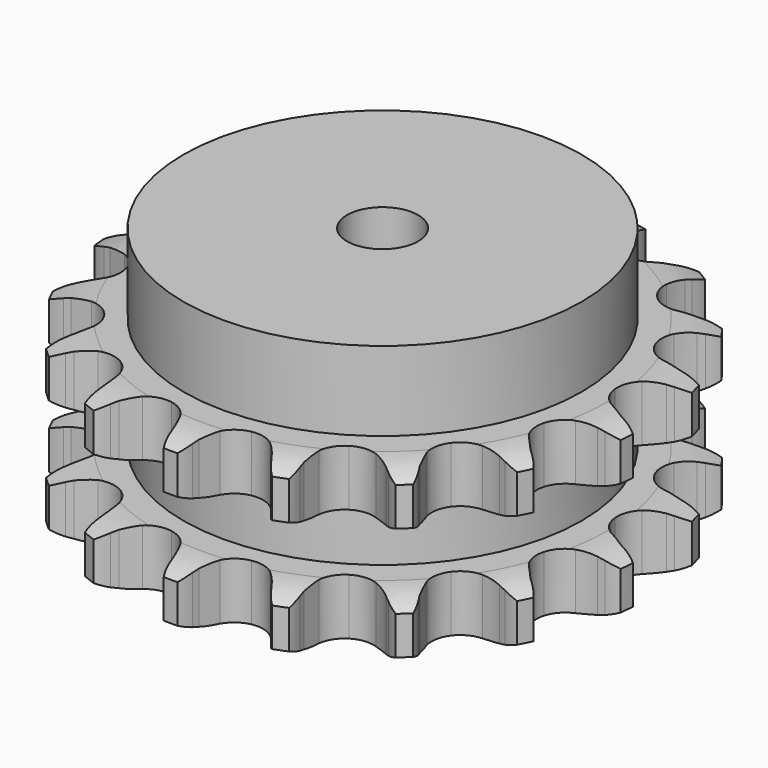
from build123d import *

# Parameters (mm, degrees)
PAD_DEPTH         = 47.7
SKETCH001_R       = 56
PAD001_DEPTH      = 70
SKETCH002_R       = 10
POCKET_DEPTH      = 0.0010001
POCKET_DEPTH_BACK = 70.001


with BuildPart() as part:
    # Sprocket → Pad (new body)
    with BuildSketch(Plane.XY):
        with BuildLine():
            ThreePointArc((-14.163628819, 75.7687219451), (-11.6049696603, 73.3617884607), (-9.7713057481, 70.3655003997))
            Line((-9.7713057481, 70.3655003997), (-9.0179825183, 68.6593859286))
            ThreePointArc((-9.0179825183, 68.6593859286), (-7.7909008371, 66.3021839506), (-6.2722327111, 64.1214093771))
            ThreePointArc((-6.2722327111, 64.1214093771), (-3.4814415257, 61.8933154782), (0, 61.0980276272))
            ThreePointArc((0, 61.0980276272), (3.4814415257, 61.8933154782), (6.2722327111, 64.1214093771))
            ThreePointArc((6.2722327111, 64.1214093771), (7.7909008371, 66.3021839506), (9.0179825183, 68.6593859286))
            Line((9.0179825183, 68.6593859286), (9.7713057481, 70.3655003997))
            ThreePointArc((9.7713057481, 70.3655003997), (11.6049696603, 73.3617884607), (14.163628819, 75.7687219451))
            ThreePointArc((14.163628819, 75.7687219451), (15.6800227667, 72.6000290152), (16.3074793514, 69.1436778001))
            Line((16.3074793514, 69.1436778001), (16.3936127087, 67.2806416969))
            ThreePointArc((16.3936127087, 67.2806416969), (16.6863127296, 64.6393432823), (17.3146419422, 62.0572253497))
            ThreePointArc((17.3146419422, 62.0572253497), (19.1120968682, 58.9714396067), (22.0711533008, 56.9722140338))
            ThreePointArc((22.0711533008, 56.9722140338), (25.6047919502, 56.4561561317), (29.0120075812, 57.5256417591))
            Line((29.0120075812, 57.5256417591), (33.2116492358, 60.7652996358))
            ThreePointArc((33.2116492358, 60.7652996358), (33.8561913272, 61.4395301701), (34.5304218616, 62.0840722616))
            ThreePointArc((34.5304218616, 62.0840722616), (37.3226466294, 64.2156318629), (40.5780099016, 65.5357361974))
            ThreePointArc((40.5780099016, 65.5357361974), (40.8473412331, 62.0332333606), (40.1838490016, 58.5836183753))
            Line((40.1838490016, 58.5836183753), (39.5911596992, 56.8152739892))
            ThreePointArc((39.5911596992, 56.8152739892), (38.9099473, 54.2466011248), (38.5630782574, 51.6118691679))
            ThreePointArc((38.5630782574, 51.6118691679), (39.1244406762, 48.0851440442), (41.1614750479, 45.1519872411))
            ThreePointArc((41.1614750479, 45.1519872411), (44.2700733408, 43.3942800653), (47.8335500663, 43.160717461))
            Line((47.8335500663, 43.160717461), (52.9198986919, 44.6645229151))
            ThreePointArc((52.9198986919, 44.6645229151), (53.7644764545, 45.0603887055), (54.626013163, 45.4178461448))
            ThreePointArc((54.626013163, 45.4178461448), (57.9996933592, 46.3967983509), (61.5121058965, 46.4517861302))
            ThreePointArc((61.5121058965, 46.4517861302), (60.497999923, 43.0885058026), (58.6331671777, 40.1115166658))
            Line((58.6331671777, 40.1115166658), (57.4417011901, 38.6766887049))
            ThreePointArc((57.4417011901, 38.6766887049), (55.8785778802, 36.5275548945), (54.6033571686, 34.1960440637))
            ThreePointArc((54.6033571686, 34.1960440637), (53.8528119749, 30.7046833296), (54.6927115061, 27.2337343758))
            ThreePointArc((54.6927115061, 27.2337343758), (56.9564360178, 24.47176602), (60.1949065601, 22.966699108))
            Line((60.1949065601, 22.966699108), (65.4810225904, 22.53155488))
            ThreePointArc((65.4810225904, 22.53155488), (66.4115711173, 22.595592058), (67.3440586935, 22.6176882373))
            ThreePointArc((67.3440586935, 22.6176882373), (70.8435601135, 22.3118201281), (74.1386511397, 21.0942649479))
            ThreePointArc((74.1386511397, 21.0942649479), (71.9780684923, 18.3244367742), (69.1637512289, 16.2221323651))
            Line((69.1637512289, 16.2221323651), (67.5344226399, 15.3146022961))
            ThreePointArc((67.5344226399, 15.3146022961), (65.3004968837, 13.8752599696), (63.2691501266, 12.1618537219))
            ThreePointArc((63.2691501266, 12.1618537219), (61.3080626077, 9.1773849909), (60.8373942127, 5.6374147756))
            ThreePointArc((60.8373942127, 5.6374147756), (61.950516404, 2.244204371), (64.4266073714, -0.3290992225))
            Line((64.4266073714, -0.3290992225), (69.1985715452, -2.6444244933))
            ThreePointArc((69.1985715452, -2.6444244933), (70.0894151015, -2.9208645035), (70.9669159312, -3.2371137957))
            ThreePointArc((70.9669159312, -3.2371137957), (74.1196115167, -4.7864930371), (76.7523607301, -7.1121536029))
            ThreePointArc((76.7523607301, -7.1121536029), (73.7371000675, -8.9144489796), (70.353387427, -9.8581408015))
            Line((70.353387427, -9.8581408015), (68.506246091, -10.1158060139))
            ThreePointArc((68.506246091, -10.1158060139), (65.9032219405, -10.6509656997), (63.3900937735, -11.5148623562))
            ThreePointArc((63.3900937735, -11.5148623562), (60.4833196656, -13.5893700446), (58.7656497192, -16.720268928))
            ThreePointArc((58.7656497192, -16.720268928), (58.5778362702, -20.2864495139), (59.9571378571, -23.5804508793))
            Line((59.9571378571, -23.5804508793), (63.5704699703, -27.4632596855))
            ThreePointArc((63.5704699703, -27.4632596855), (64.3012951974, -28.0428421287), (65.0052979312, -28.6547256731))
            ThreePointArc((65.0052979312, -28.6547256731), (67.3853986736, -31.2383637948), (69.0002387043, -34.3580363999))
            ThreePointArc((69.0002387043, -34.3580363999), (65.5375276872, -34.9493890021), (62.0414088116, -34.607017427))
            Line((62.0414088116, -34.607017427), (60.2259214013, -34.1800186682))
            ThreePointArc((60.2259214013, -34.1800186682), (57.6053516919, -33.7387194322), (54.9498539996, -33.6364324671))
            ThreePointArc((54.9498539996, -33.6364324671), (51.489969253, -34.5208053542), (48.7572785994, -36.8197876626))
            ThreePointArc((48.7572785994, -36.8197876626), (47.2938947572, -40.0773059808), (47.3901246413, -43.6471319811))
            Line((47.3901246413, -43.6471319811), (49.3568241697, -48.573029478))
            ThreePointArc((49.3568241697, -48.573029478), (49.8289290711, -49.3774785337), (50.2643542387, -50.202358067))
            ThreePointArc((50.2643542387, -50.202358067), (51.5504143443, -53.4713204242), (51.929252098, -56.9636759967))
            ThreePointArc((51.929252098, -56.9636759967), (48.4867490368, -56.2642203787), (45.3503941528, -54.6820245849))
            Line((45.3503941528, -54.6820245849), (43.811752303, -53.6280304033))
            ThreePointArc((43.811752303, -53.6280304033), (41.5275594951, -52.2698721527), (39.0883319554, -51.2152159874))
            ThreePointArc((39.0883319554, -51.2152159874), (35.5426131771, -50.7900146144), (32.1639668314, -51.946590048))
            ThreePointArc((32.1639668314, -51.946590048), (29.6226506926, -54.455500199), (28.4228124948, -57.8190260518))
            Line((28.4228124948, -57.8190260518), (28.4772657695, -63.1227424871))
            ThreePointArc((28.4772657695, -63.1227424871), (28.6268899621, -64.0434128526), (28.7349309819, -64.9698838231))
            ThreePointArc((28.7349309819, -64.9698838231), (28.7532609071, -68.4826789355), (27.844932246, -71.8760555034))
            ThreePointArc((27.844932246, -71.8760555034), (24.8875662546, -69.9802570222), (22.5345574685, -67.371921319))
            Line((22.5345574685, -67.371921319), (21.4805632869, -65.8332794692))
            ThreePointArc((21.4805632869, -65.8332794692), (19.8412402763, -63.7416890016), (17.9477140848, -61.8771007952))
            ThreePointArc((17.9477140848, -61.8771007952), (14.7950302431, -60.1997509637), (11.2267331161, -60.0577176013))
            ThreePointArc((11.2267331161, -60.0577176013), (7.9507035073, -61.479177367), (5.6168420247, -64.1821402678))
            Line((5.6168420247, -64.1821402678), (3.7516948291, -69.147379348))
            ThreePointArc((3.7516948291, -69.147379348), (3.5586307367, -70.059929389), (3.3246960702, -70.9628667583))
            ThreePointArc((3.3246960702, -70.9628667583), (2.0728202571, -74.245072181), (0, -77.0811754355))
            ThreePointArc((0, -77.0811754355), (-2.0728202571, -74.245072181), (-3.3246960702, -70.9628667583))
            Line((-3.3246960702, -70.9628667583), (-3.7516948291, -69.147379348))
            ThreePointArc((-3.7516948291, -69.147379348), (-4.524748386, -66.604837546), (-5.6168420247, -64.1821402678))
            ThreePointArc((-5.6168420247, -64.1821402678), (-7.9507035073, -61.479177367), (-11.2267331161, -60.0577176013))
            ThreePointArc((-11.2267331161, -60.0577176013), (-14.7950302431, -60.1997509637), (-17.9477140848, -61.8771007952))
            Line((-17.9477140848, -61.8771007952), (-21.4805632869, -65.8332794692))
            ThreePointArc((-21.4805632869, -65.8332794692), (-21.9902412888, -66.614464246), (-22.5345574685, -67.371921319))
            ThreePointArc((-22.5345574685, -67.371921319), (-24.8875662546, -69.9802570222), (-27.844932246, -71.8760555034))
            ThreePointArc((-27.844932246, -71.8760555034), (-28.7532609071, -68.4826789355), (-28.7349309819, -64.9698838231))
            Line((-28.7349309819, -64.9698838231), (-28.4772657695, -63.1227424871))
            ThreePointArc((-28.4772657695, -63.1227424871), (-28.2796447062, -60.4726337096), (-28.4228124948, -57.8190260518))
            ThreePointArc((-28.4228124948, -57.8190260518), (-29.6226506926, -54.455500199), (-32.1639668314, -51.946590048))
            ThreePointArc((-32.1639668314, -51.946590048), (-35.5426131771, -50.7900146144), (-39.0883319554, -51.2152159874))
            Line((-39.0883319554, -51.2152159874), (-43.811752303, -53.6280304033))
            ThreePointArc((-43.811752303, -53.6280304033), (-44.5692093761, -54.172346583), (-45.3503941528, -54.6820245849))
            ThreePointArc((-45.3503941528, -54.6820245849), (-48.4867490368, -56.2642203787), (-51.929252098, -56.9636759967))
            ThreePointArc((-51.929252098, -56.9636759967), (-51.5504143443, -53.4713204242), (-50.2643542387, -50.202358067))
            Line((-50.2643542387, -50.202358067), (-49.3568241697, -48.573029478))
            ThreePointArc((-49.3568241697, -48.573029478), (-48.2152183059, -46.1732656003), (-47.3901246413, -43.6471319811))
            ThreePointArc((-47.3901246413, -43.6471319811), (-47.2938947572, -40.0773059808), (-48.7572785994, -36.8197876626))
            ThreePointArc((-48.7572785994, -36.8197876626), (-51.489969253, -34.5208053542), (-54.9498539996, -33.6364324671))
            Line((-54.9498539996, -33.6364324671), (-60.2259214013, -34.1800186682))
            ThreePointArc((-60.2259214013, -34.1800186682), (-61.1288587706, -34.4139533346), (-62.0414088116, -34.607017427))
            ThreePointArc((-62.0414088116, -34.607017427), (-65.5375276872, -34.9493890021), (-69.0002387043, -34.3580363999))
            ThreePointArc((-69.0002387043, -34.3580363999), (-67.3853986736, -31.2383637948), (-65.0052979312, -28.6547256731))
            Line((-65.0052979312, -28.6547256731), (-63.5704699703, -27.4632596855))
            ThreePointArc((-63.5704699703, -27.4632596855), (-61.6390595037, -25.6379421168), (-59.9571378571, -23.5804508793))
            ThreePointArc((-59.9571378571, -23.5804508793), (-58.5778362702, -20.2864495139), (-58.7656497192, -16.720268928))
            ThreePointArc((-58.7656497192, -16.720268928), (-60.4833196656, -13.5893700446), (-63.3900937735, -11.5148623562))
            Line((-63.3900937735, -11.5148623562), (-68.506246091, -10.1158060139))
            ThreePointArc((-68.506246091, -10.1158060139), (-69.4327170615, -10.0077649942), (-70.353387427, -9.8581408015))
            ThreePointArc((-70.353387427, -9.8581408015), (-73.7371000675, -8.9144489796), (-76.7523607301, -7.1121536029))
            ThreePointArc((-76.7523607301, -7.1121536029), (-74.1196115167, -4.7864930371), (-70.9669159312, -3.2371137957))
            Line((-70.9669159312, -3.2371137957), (-69.1985715452, -2.6444244933))
            ThreePointArc((-69.1985715452, -2.6444244933), (-66.7382041616, -1.6400724856), (-64.4266073714, -0.3290992225))
            ThreePointArc((-64.4266073714, -0.3290992225), (-61.950516404, 2.244204371), (-60.8373942127, 5.6374147756))
            ThreePointArc((-60.8373942127, 5.6374147756), (-61.3080626077, 9.1773849909), (-63.2691501266, 12.1618537219))
            Line((-63.2691501266, 12.1618537219), (-67.5344226399, 15.3146022961))
            ThreePointArc((-67.5344226399, 15.3146022961), (-68.3593021732, 15.7500274637), (-69.1637512289, 16.2221323651))
            ThreePointArc((-69.1637512289, 16.2221323651), (-71.9780684923, 18.3244367742), (-74.1386511397, 21.0942649479))
            ThreePointArc((-74.1386511397, 21.0942649479), (-70.8435601135, 22.3118201281), (-67.3440586935, 22.6176882373))
            Line((-67.3440586935, 22.6176882373), (-65.4810225904, 22.53155488))
            ThreePointArc((-65.4810225904, 22.53155488), (-62.8239845384, 22.5792980226), (-60.1949065601, 22.966699108))
            ThreePointArc((-60.1949065601, 22.966699108), (-56.9564360178, 24.47176602), (-54.6927115061, 27.2337343758))
            ThreePointArc((-54.6927115061, 27.2337343758), (-53.8528119749, 30.7046833296), (-54.6033571686, 34.1960440637))
            Line((-54.6033571686, 34.1960440637), (-57.4417011901, 38.6766887049))
            ThreePointArc((-57.4417011901, 38.6766887049), (-58.0535847345, 39.3806914387), (-58.6331671777, 40.1115166658))
            ThreePointArc((-58.6331671777, 40.1115166658), (-60.497999923, 43.0885058026), (-61.5121058965, 46.4517861302))
            ThreePointArc((-61.5121058965, 46.4517861302), (-57.9996933592, 46.3967983509), (-54.626013163, 45.4178461448))
            Line((-54.626013163, 45.4178461448), (-52.9198986919, 44.6645229151))
            ThreePointArc((-52.9198986919, 44.6645229151), (-50.4250376836, 43.7492092167), (-47.8335500663, 43.160717461))
            ThreePointArc((-47.8335500663, 43.160717461), (-44.2700733408, 43.3942800653), (-41.1614750479, 45.1519872411))
            ThreePointArc((-41.1614750479, 45.1519872411), (-39.1244406762, 48.0851440442), (-38.5630782574, 51.6118691679))
            Line((-38.5630782574, 51.6118691679), (-39.5911596992, 56.8152739892))
            ThreePointArc((-39.5911596992, 56.8152739892), (-39.9074089914, 57.692774819), (-40.1838490016, 58.5836183753))
            ThreePointArc((-40.1838490016, 58.5836183753), (-40.8473412331, 62.0332333606), (-40.5780099016, 65.5357361974))
            ThreePointArc((-40.5780099016, 65.5357361974), (-37.3226466294, 64.2156318629), (-34.5304218616, 62.0840722616))
            Line((-34.5304218616, 62.0840722616), (-33.2116492358, 60.7652996358))
            ThreePointArc((-33.2116492358, 60.7652996358), (-31.2159100748, 59.0105472834), (-29.0120075812, 57.5256417591))
            ThreePointArc((-29.0120075812, 57.5256417591), (-25.6047919502, 56.4561561317), (-22.0711533008, 56.9722140338))
            ThreePointArc((-22.0711533008, 56.9722140338), (-19.1120968682, 58.9714396067), (-17.3146419422, 62.0572253497))
            Line((-17.3146419422, 62.0572253497), (-16.3936127087, 67.2806416969))
            ThreePointArc((-16.3936127087, 67.2806416969), (-16.3715165294, 68.2131292732), (-16.3074793514, 69.1436778001))
            ThreePointArc((-16.3074793514, 69.1436778001), (-15.6800227667, 72.6000290152), (-14.163628819, 75.7687219451))
        make_face()
    extrude(amount=PAD_DEPTH)

    # Sketch → Groove (revolve, cut)
    with BuildSketch(Plane.XZ):
        with BuildLine():
            ThreePointArc((63.3757022694, 0), (69.0765793949, 0.6326982121), (74.5, 2.5))
            Line((74.5, 2.5), (74.5, 13.3))
            ThreePointArc((74.5, 13.3), (69.0765793949, 15.1673017879), (63.3757022694, 15.8))
            Line((56, 15.8), (63.3757022694, 15.8))
            Line((56, 31.9), (56, 15.8))
            Line((63.3757022694, 31.9), (56, 31.9))
            ThreePointArc((63.3757022694, 31.9), (69.0765793949, 32.5326982121), (74.5, 34.4))
            Line((74.5, 34.4), (74.5, 45.2))
            ThreePointArc((74.5, 45.2), (69.0765793949, 47.0673017879), (63.3757022694, 47.7))
            Line((63.3757022694, 47.7), (84.5, 47.7))
            Line((84.5, 47.7), (84.5, 0))
            Line((63.3757022694, 0), (84.5, 0))
        make_face()
    revolve(axis=Axis((0, 0, 0), (0, 0, 1)), mode=Mode.SUBTRACT)

    # Sketch001 → Pad001 (join)
    with BuildSketch(Plane.XY):
        Circle(SKETCH001_R)
    extrude(amount=PAD001_DEPTH)

    # Sketch002 → Pocket (cut, two sides)
    with BuildSketch(Plane.XY) as pocket_sk:
        Circle(SKETCH002_R)
    extrude(amount=-POCKET_DEPTH, mode=Mode.SUBTRACT)
    extrude(pocket_sk.sketch, amount=POCKET_DEPTH_BACK, mode=Mode.SUBTRACT)


solid = part.part
